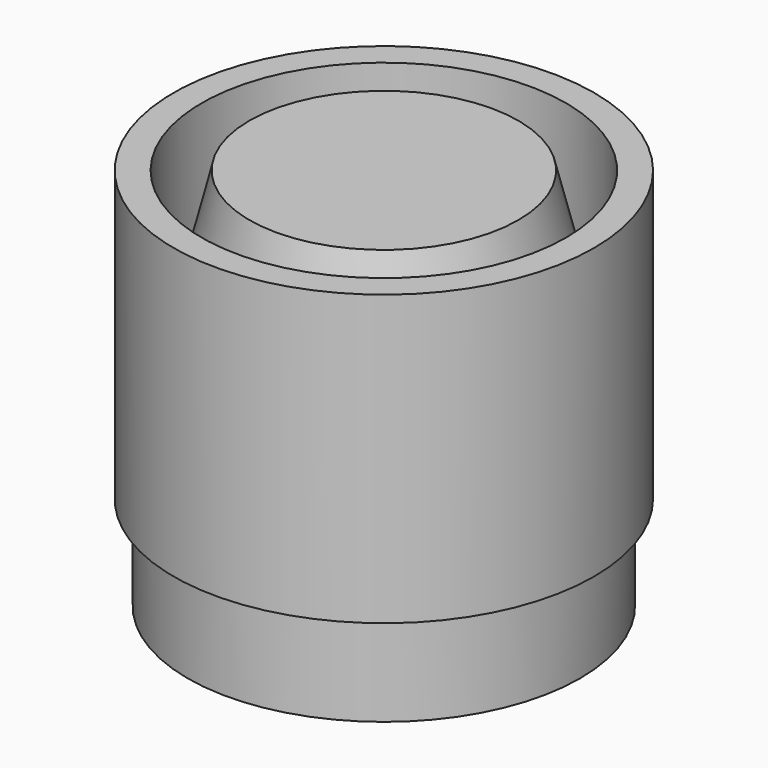
from build123d import *

# Parameters (mm, degrees)
SKETCH001_R   = 9.375
SKETCH001_R_2 = 8.125
PAD_DEPTH     = 12.898076


with BuildPart() as body:
    # Sketch → Revolution (revolve)
    with BuildSketch(Plane.XZ):
        Polygon((8.75, 0), (8.75, 4), (6.75, 4), (6.25, 9.5), (7.75, 9.5), (6.25, 12.098076), (6.25, 13.098076), (7, 13.098076), (6, 17.098076), (0, 17.098076), (0, 0), align=None)
    revolve(axis=Axis((0, 0, 0), (0, 0, 1)))


with BuildPart() as body001:
    # Sketch001 (on Edge1 of Binder) → Pad (new body)
    with BuildSketch(Plane.XY.offset(17.098076)):
        Circle(SKETCH001_R)
        Circle(SKETCH001_R_2, mode=Mode.SUBTRACT)
    extrude(amount=-PAD_DEPTH)


solid = Compound([body.part, body001.part])
